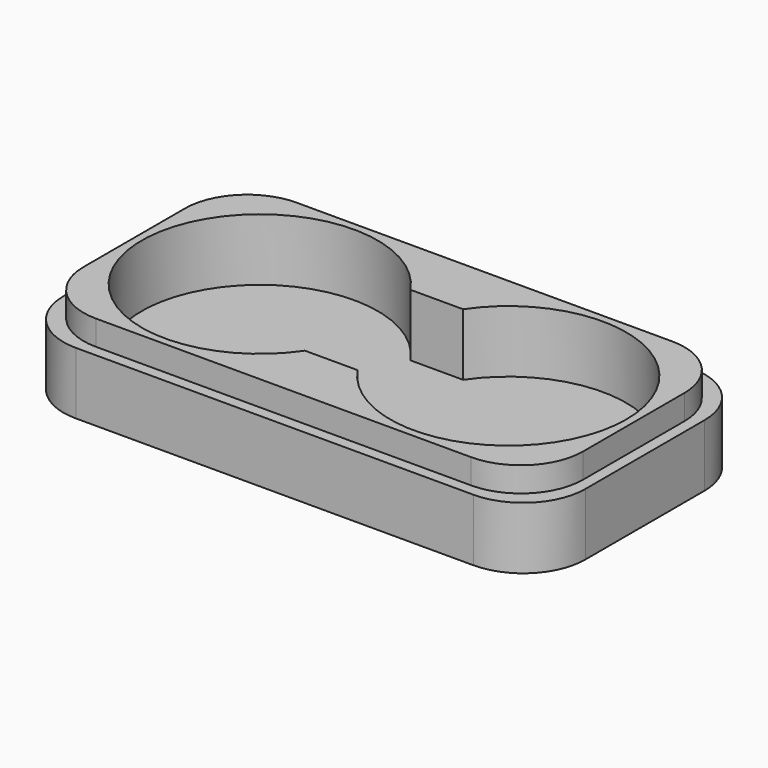
from build123d import *

# Parameters (mm, degrees)
F0_W     = 42
F0_H     = 22
F1_DEPTH = 5
F2_W     = 42
F2_H     = 22
F3_DEPTH = 2
F4_W     = 42
F4_H     = 22
F4_W_2   = 40.2
F4_H_2   = 20.2
F5_DEPTH = 2
F6_R     = 5


with BuildPart() as f1:
    # F0 (on Top) → F1 (new body)
    with BuildSketch(Plane.XY):
        with Locations((2.120368, 5.306732)):
            Rectangle(F0_W, F0_H)
        with BuildLine():
            ThreePointArc((0, 0), (-17.379632, 5.306732), (0, 10.613464))
            Line((0, 10.613464), (4.240737, 10.613464))
            ThreePointArc((4.240737, 10.613464), (14.89467, 14.392614), (21.620368, 5.306732))
            ThreePointArc((21.620368, 5.306732), (14.89467, -3.77915), (4.240737, 0))
            Line((4.240737, 0), (0, 0))
        make_face(mode=Mode.SUBTRACT)
    extrude(amount=F1_DEPTH)

    # F2 (on face) → F3 (join)
    with BuildSketch(Plane(origin=(0, 0, 0), x_dir=(1, 0, 0), z_dir=(0, 0, -1))):
        with Locations((2.120368, -5.306732)):
            Rectangle(F2_W, F2_H)
    extrude(amount=F3_DEPTH)

    # F4 (on face) → F5 (cut)
    with BuildSketch(Plane.XY.offset(5)):
        with Locations((2.120368, 5.306732)):
            Rectangle(F4_W, F4_H)
        with Locations((2.120368, 5.306732)):
            Rectangle(F4_W_2, F4_H_2, mode=Mode.SUBTRACT)
    extrude(amount=-F5_DEPTH, mode=Mode.SUBTRACT)

    # F6
    f6_edges = [f1.edges().sort_by_distance(p)[0] for p in [
        (-18.879632, 16.306732, 0.5),
        (-18.879632, -5.693268, 0.5),
        (23.120368, -5.693268, 0.5),
        (23.120368, 16.306732, 0.5),
        (22.220368, 15.406732, 4),
        (-17.979632, -4.793268, 4),
        (22.220368, -4.793268, 4),
        (-17.979632, 15.406732, 4),
    ]]
    fillet(f6_edges, radius=F6_R)


solid = f1.part
